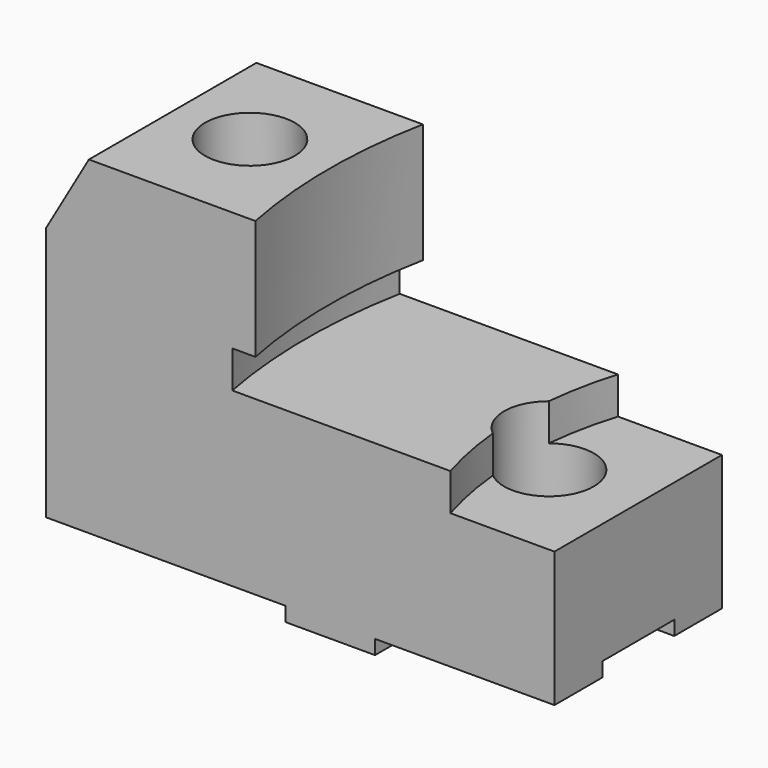
from build123d import *

# Parameters (mm, degrees)
F1_DEPTH        = 44.45
F3_DEPTH        = 7.874
F5_DEPTH        = 33.274
F7_DEPTH        = 7.874
F9_D            = 12.7
F9_CBORE_D      = 19.05
F9_CBORE_DEPTH  = 20.574
F11_D           = 12.7
F11_START       = 7.874
F11_CBORE_D     = 19.05
F11_CBORE_DEPTH = 20.574
F12_W           = 19.1008
F12_H           = 3.048
F13_DEPTH       = 107.951
F14_SIZE2       = 9.0921120392
F14_SIZE        = 15.748


with BuildPart() as f1:
    # F0 (on Front) → F1 (new body)
    with BuildSketch(Plane.XZ):
        Polygon((0, 69.85), (0, 0), (50.8254, 0), (50.8254, -3.048), (69.85, -3.048), (69.85, 0), (107.95, 0), (107.95, 28.702), (86.0188790381, 28.702), (86.0188790381, 36.576), (44.45, 36.576), (44.45, 69.85), align=None)
    extrude(amount=F1_DEPTH)

    # F2 (on face) → F3 (cut, through all)
    with BuildSketch(Plane.XY.offset(36.576)):
        with BuildLine():
            Line((86.0188790381, 0), (85.8631742014, 0))
            ThreePointArc((85.8631742014, 0), (82.55, -22.225), (85.8631742014, -44.45))
            Line((85.8631742014, -44.45), (86.0188790381, -44.45))
            Line((86.0188790381, -44.45), (86.0188790381, 0))
        make_face()
    extrude(amount=-F3_DEPTH, mode=Mode.SUBTRACT)

    # F4 (on face) → F5 (cut, through all)
    with BuildSketch(Plane.XY.offset(69.85)):
        with BuildLine():
            Line((44.45, -44.45), (44.45, 0))
            ThreePointArc((44.45, 0), (42.2684167521, -22.225), (44.45, -44.45))
        make_face()
    extrude(amount=-F5_DEPTH, mode=Mode.SUBTRACT)

    # F6 (on face) → F7 (cut)
    with BuildSketch(Plane.XY.offset(36.576)):
        with BuildLine():
            Line((44.45, 0), (39.5340062096, 0))
            ThreePointArc((39.5340062096, 0), (37.442416752, -22.225), (39.5340062096, -44.45))
            Line((39.5340062096, -44.45), (44.45, -44.45))
            ThreePointArc((44.45, -44.45), (42.2684167521, -22.225), (44.45, 0))
        make_face()
    extrude(amount=F7_DEPTH, mode=Mode.SUBTRACT)

    # F9 (through all)
    with Locations(Plane.XY.offset(69.85)):
        with Locations((25.4, -22.098)):
            CounterBoreHole(F9_D / 2, F9_CBORE_D / 2, F9_CBORE_DEPTH)

    # F11 (through all)
    # its depths count from where the whole tool has entered the part; down to there all is cleared
    with Locations(Plane.XY.offset(36.576).offset(-F11_START)):
        with Locations((88.9, -22.098)):
            CounterBoreHole(F11_D / 2, F11_CBORE_D / 2, F11_CBORE_DEPTH)

    # F12 (on face) → F13 (cut, through all)
    with BuildSketch(Plane.YZ.offset(107.95)):
        with Locations((-22.1996, 1.524)):
            Rectangle(F12_W, F12_H)
        with Locations((-22.1996, -1.524)):
            Rectangle(F12_W, F12_H)
    extrude(amount=-F13_DEPTH, mode=Mode.SUBTRACT)

    # F14
    f14_edges = [f1.edges().sort_by_distance(p)[0] for p in [
        (0, -22.225, 69.85),
    ]]
    f14_side = f1.faces().sort_by_distance((0, -22.225485, 35.563276))[0]
    chamfer(f14_edges, length=F14_SIZE, length2=F14_SIZE2, reference=f14_side)


solid = f1.part
